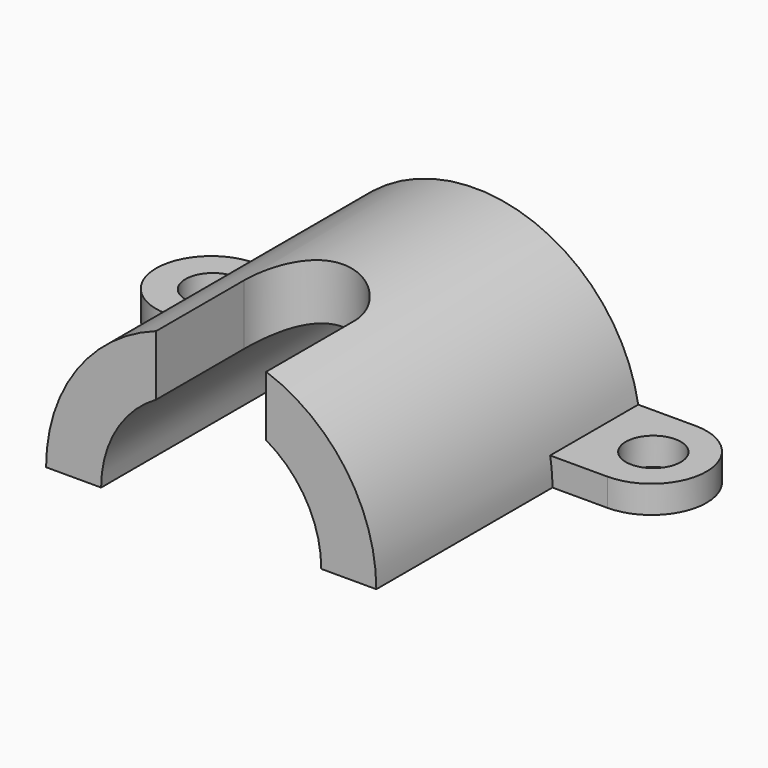
from build123d import *

# Parameters (mm, degrees)
F0_R      = 30
F1_DEPTH  = 60
F3_DEPTH  = 60
F4_R      = 5
F5_DEPTH  = 5
F7_DEPTH  = 60
F10_W     = 20
F10_H     = 40
F11_DEPTH = 25


with BuildPart() as f1:
    # F0 (on Front) → F1 (new body)
    with BuildSketch(Plane.XZ):
        Circle(F0_R)
    extrude(amount=F1_DEPTH)

    # F2 (on face) → F3 (cut, through all)
    with BuildSketch(Plane.XZ.offset(60)):
        with BuildLine():
            Line((30, 0), (-30, 0))
            ThreePointArc((-30, 0), (0, -30), (30, 0))
        make_face()
    extrude(amount=-F3_DEPTH, mode=Mode.SUBTRACT)

    # F4 (on Top) → F5 (join)
    with BuildSketch(Plane.XY):
        with BuildLine():
            Line((40, 0), (-40, 0))
            ThreePointArc((-40, 0), (-50, -10), (-40, -20))
            Line((-40, -20), (40, -20))
            ThreePointArc((40, -20), (50, -10), (40, 0))
        make_face()
        with Locations((-39.6707831735, -10)):
            Circle(F4_R, mode=Mode.SUBTRACT)
        with Locations((40.3292197076, -10)):
            Circle(F4_R, mode=Mode.SUBTRACT)
    extrude(amount=F5_DEPTH)

    # F6 (on face) → F7 (cut, through all)
    with BuildSketch(Plane.XZ.offset(60)):
        with BuildLine():
            Line((-20, 0), (20, 0))
            ThreePointArc((20, 0), (0, 20), (-20, 0))
        make_face()
    extrude(amount=-F7_DEPTH, mode=Mode.SUBTRACT)

    # F10 (on plane+point) → F11 (cut)
    with BuildSketch(Plane.XY.offset(30)):
        with BuildLine():
            Line((-10, -40), (10, -40))
            ThreePointArc((10, -40), (0, -30), (-10, -40))
        make_face()
        with Locations((0, -60)):
            Rectangle(F10_W, F10_H)
    extrude(amount=-F11_DEPTH, mode=Mode.SUBTRACT)


solid = f1.part
